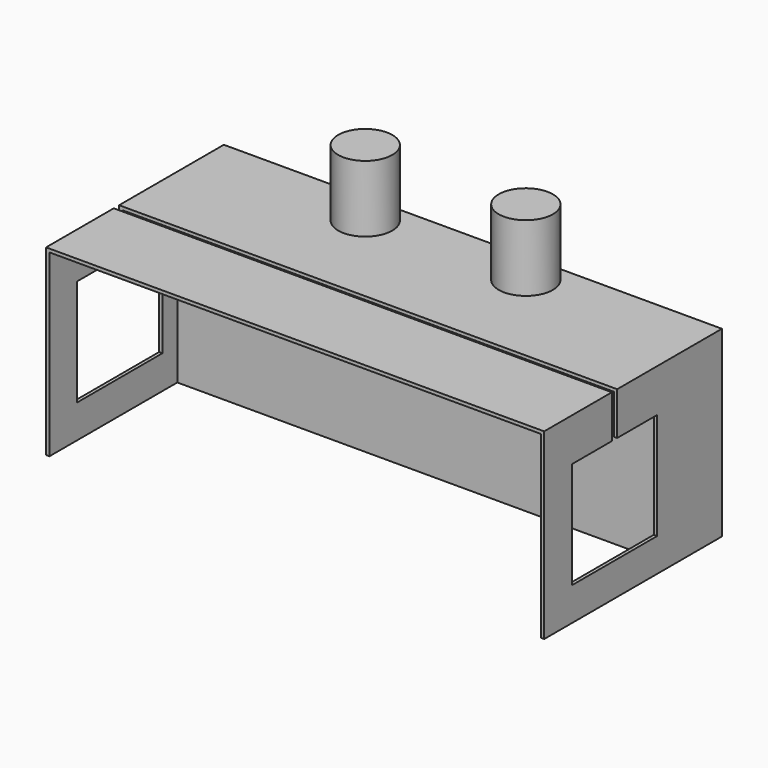
from build123d import *

# Parameters (mm, degrees)
F0_W     = 7476
F0_H     = 2745
F1_DEPTH = 935
F3_R     = 406.5
F4_DEPTH = 1000
F6_DEPTH = 2400
F8_DEPTH = 7476.001


with BuildPart() as f1:
    # F0 (on Front) → F1 (new body)
    with BuildSketch(Plane.XZ):
        with Locations((3738, 1372.5)):
            Rectangle(F0_W, F0_H)
    extrude(amount=F1_DEPTH)

    # F3 (on face) → F4 (join)
    with BuildSketch(Plane.XY.offset(2745)):
        with Locations((2496.924886, -468)):
            Circle(F3_R)
        with Locations((4906.924886, -468)):
            Circle(F3_R)
    extrude(amount=F4_DEPTH)

    # F5 (on face) → F6 (join)
    with BuildSketch(Plane.XZ.offset(935)):
        Polygon((0, 2745), (0, 0), (50, 0), (50, 2695), (7426, 2695), (7426, 0), (7476, 0), (7476, 2745), align=None)
    extrude(amount=F6_DEPTH)

    # F7 (on face) → F8 (cut, through all)
    with BuildSketch(Plane(origin=(0, 0, 0), x_dir=(0, -1, 0), z_dir=(-1, 0, 0))):
        Polygon((2065.119958, 2745), (1965.119958, 2745), (1965.119958, 2100), (1215.119958, 2100), (1215.119958, 500), (2815.119958, 500), (2815.119958, 2100), (2065.119958, 2100), align=None)
    extrude(amount=-F8_DEPTH, mode=Mode.SUBTRACT)


solid = f1.part
